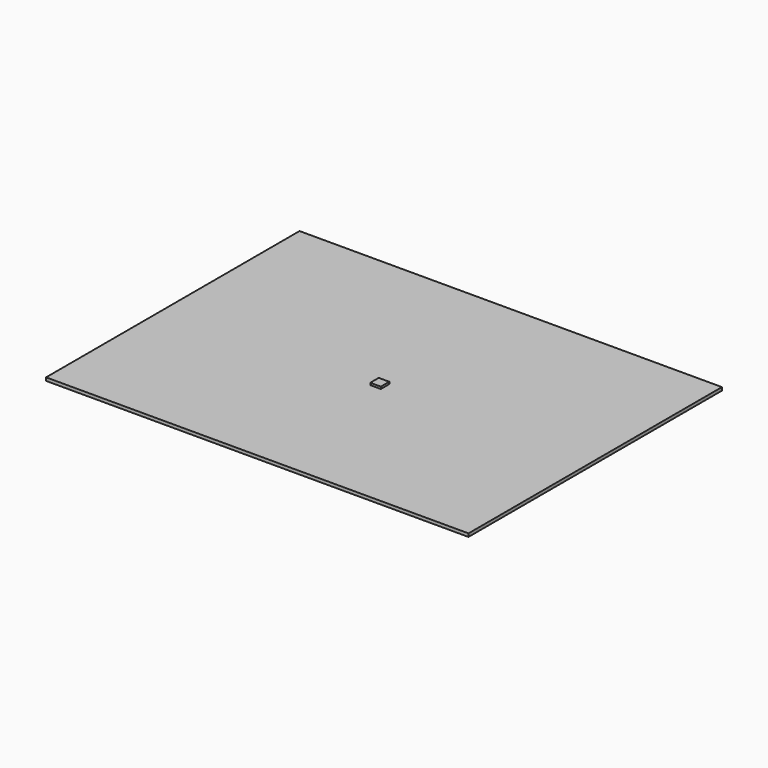
from build123d import *

# Parameters (mm, degrees)
F0_W     = 400
F0_H     = 300
F1_DEPTH = 3
F2_W     = 10
F2_H     = 10
F3_DEPTH = 10


with BuildPart() as f1:
    # F0 (on Top) → F1 (new body)
    with BuildSketch(Plane.XY):
        Rectangle(F0_W, F0_H)
    extrude(amount=F1_DEPTH)


with BuildPart() as f3:
    # F2 (on Front) → F3 (new body)
    with BuildSketch(Plane.XZ):
        Rectangle(F2_W, F2_H)
    extrude(amount=F3_DEPTH)


solid = Compound([f1.part, f3.part])
